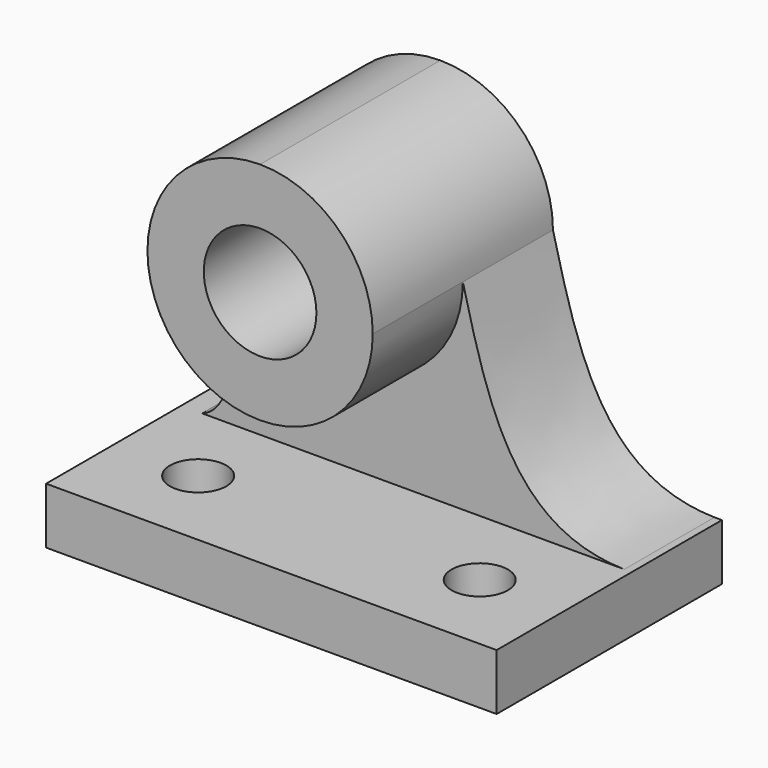
from build123d import *

# Parameters (mm, degrees)
F1_DEPTH = 25.4
F3_DEPTH = 6.35
F5_DEPTH = 19.05
F6_R     = 6.35
F7_DEPTH = 25.4010001
F8_R     = 3.175
F9_DEPTH = 6.3510001


with BuildPart() as f1:
    # F0 (on Front) → F1 (new body)
    with BuildSketch(Plane.XZ):
        with BuildLine():
            add(Edge.make_bspline(
                [(-43.2595827852, 47.5290406017), (-40.4437585235, 36.3493184584), (-37.6279342618, 25.1695963151), (-25.0532810608, 24.9273501791)],
                knots=[0, 0, 0, 0, 0.3387649469, 0.3387649469, 0.3387649469, 0.3387649469], degree=3))
            Line((-43.2595827852, 47.5290406017), (-43.2595827852, 24.9273501791))
            Line((-43.2595827852, 24.9273501791), (-25.0532810608, 24.9273501791))
        make_face()
        with BuildLine():
            Line((-24.2095827852, 24.9273501791), (-25.0532810608, 24.9273501791))
            add(Edge.make_bspline(
                [(-25.0532810608, 24.9273501791), (-24.776800624, 24.9220238837), (-24.495602442, 24.9219851311), (-24.2095827852, 24.9273501791)],
                knots=[0.3387649469, 0.3387649469, 0.3387649469, 0.3387649469, 0.3462134132, 0.3462134132, 0.3462134132, 0.3462134132], degree=3))
        make_face()
        with BuildLine():
            add(Edge.make_bspline(
                [(-72.6796290961, 24.9273501791), (-73.3463645358, 24.7120564737), (-74.1177900306, 24.7018207484), (-75.0095827852, 24.9273501791)],
                knots=[0.2357769442, 0.2357769442, 0.2357769442, 0.2357769442, 0.2710842466, 0.2710842466, 0.2710842466, 0.2710842466], degree=3))
            Line((-72.6796290961, 24.9273501791), (-75.0095827852, 24.9273501791))
        make_face()
        with BuildLine():
            Line((-68.6595827852, 24.9273501791), (-68.6595827852, 36.1707942024))
            add(Edge.make_bspline(
                [(-68.6595827852, 36.1707942024), (-68.9307748645, 30.329459196), (-69.8866500944, 25.8292233399), (-72.6796290961, 24.9273501791)],
                knots=[0.0878733709, 0.0878733709, 0.0878733709, 0.0878733709, 0.2357769442, 0.2357769442, 0.2357769442, 0.2357769442], degree=3))
            Line((-72.6796290961, 24.9273501791), (-68.6595827852, 24.9273501791))
        make_face()
        with BuildLine():
            ThreePointArc((-68.6490277589, 47.0113667108), (-68.6569437544, 47.2701498593), (-68.6595827852, 47.5290406017))
            Line((-68.6595827852, 47.5290406017), (-68.6595827852, 36.1707942024))
            add(Edge.make_bspline(
                [(-68.6490277589, 47.0113667108), (-68.5724341976, 43.2409261553), (-68.5055106798, 39.4894264591), (-68.6595827852, 36.1707942024)],
                knots=[0.0038450504, 0.0038450504, 0.0038450504, 0.0038450504, 0.0878733709, 0.0878733709, 0.0878733709, 0.0878733709], degree=3))
        make_face()
        with BuildLine():
            add(Edge.make_bspline(
                [(-68.6595827852, 47.5290406017), (-68.6560576938, 47.356469418), (-68.6525326024, 47.1838982344), (-68.6490277589, 47.0113667108)],
                knots=[0, 0, 0, 0, 0.0038450504, 0.0038450504, 0.0038450504, 0.0038450504], degree=3))
            ThreePointArc((-68.6595827852, 47.5290406017), (-68.6569437544, 47.2701498593), (-68.6490277589, 47.0113667108))
        make_face()
        with BuildLine():
            Line((-43.2595827852, 24.9273501791), (-43.2595827852, 47.5290406017))
            ThreePointArc((-43.2595827852, 47.5290406017), (-55.7006920428, 34.8316796324), (-68.6490277589, 47.0113667108))
            add(Edge.make_bspline(
                [(-68.6490277589, 47.0113667108), (-68.5724341976, 43.2409261553), (-68.5055106798, 39.4894264591), (-68.6595827852, 36.1707942024)],
                knots=[0.0038450504, 0.0038450504, 0.0038450504, 0.0038450504, 0.0878733709, 0.0878733709, 0.0878733709, 0.0878733709], degree=3))
            Line((-68.6595827852, 36.1707942024), (-68.6595827852, 24.9273501791))
            Line((-68.6595827852, 24.9273501791), (-72.6796290961, 24.9273501791))
            add(Edge.make_bspline(
                [(-72.6796290961, 24.9273501791), (-73.3463645358, 24.7120564737), (-74.1177900306, 24.7018207484), (-75.0095827852, 24.9273501791)],
                knots=[0.2357769442, 0.2357769442, 0.2357769442, 0.2357769442, 0.2710842466, 0.2710842466, 0.2710842466, 0.2710842466], degree=3))
            Line((-75.0095827852, 24.9273501791), (-75.0095827852, 18.5773501791))
            Line((-75.0095827852, 18.5773501791), (-24.2095827852, 18.5773501791))
            Line((-24.2095827852, 18.5773501791), (-24.2095827852, 24.9273501791))
            add(Edge.make_bspline(
                [(-25.0532810608, 24.9273501791), (-24.776800624, 24.9220238837), (-24.495602442, 24.9219851311), (-24.2095827852, 24.9273501791)],
                knots=[0.3387649469, 0.3387649469, 0.3387649469, 0.3387649469, 0.3462134132, 0.3462134132, 0.3462134132, 0.3462134132], degree=3))
            Line((-25.0532810608, 24.9273501791), (-43.2595827852, 24.9273501791))
        make_face()
        with BuildLine():
            ThreePointArc((-43.2595827852, 47.5290406017), (-46.9793266641, 56.5092967228), (-55.9595827852, 60.2290406017))
            ThreePointArc((-55.9595827852, 60.2290406017), (-64.9398389062, 56.5092967228), (-68.6595827852, 47.5290406017))
            add(Edge.make_bspline(
                [(-68.6595827852, 47.5290406017), (-68.6560576938, 47.356469418), (-68.6525326024, 47.1838982344), (-68.6490277589, 47.0113667108)],
                knots=[0, 0, 0, 0, 0.0038450504, 0.0038450504, 0.0038450504, 0.0038450504], degree=3))
            ThreePointArc((-68.6490277589, 47.0113667108), (-55.7006920428, 34.8316796324), (-43.2595827852, 47.5290406017))
        make_face()
    extrude(amount=F1_DEPTH)

    # F2 (on face) → F3 (join)
    with BuildSketch(Plane.XZ.offset(25.4)):
        with BuildLine():
            add(Edge.make_bspline(
                [(-43.2595827852, 47.5290406017), (-40.4437585235, 36.3493184584), (-37.6279342618, 25.1695963151), (-25.0532810608, 24.9273501791)],
                knots=[0, 0, 0, 0, 0.3387649469, 0.3387649469, 0.3387649469, 0.3387649469], degree=3))
            ThreePointArc((-43.2595827852, 47.5290406017), (-55.9595827852, 34.8290406017), (-68.6595827852, 47.5290406017))
            Line((-68.6595827852, 47.5290406017), (-68.6595827852, 36.1707942024))
            add(Edge.make_bspline(
                [(-68.6595827852, 36.1707942024), (-68.9307748645, 30.329459196), (-69.8866500944, 25.8292233399), (-72.6796290961, 24.9273501791)],
                knots=[0.0878733709, 0.0878733709, 0.0878733709, 0.0878733709, 0.2357769442, 0.2357769442, 0.2357769442, 0.2357769442], degree=3))
            Line((-72.6796290961, 24.9273501791), (-75.0095827852, 24.9273501791))
            Line((-75.0095827852, 24.9273501791), (-75.0095827852, 18.5773501791))
            Line((-75.0095827852, 18.5773501791), (-24.2095827852, 18.5773501791))
            Line((-24.2095827852, 18.5773501791), (-24.2095827852, 24.9273501791))
            Line((-24.2095827852, 24.9273501791), (-25.0532810608, 24.9273501791))
        make_face()
    extrude(amount=F3_DEPTH)

    # F4 (on face) → F5 (cut)
    with BuildSketch(Plane.XZ.offset(31.75)):
        with BuildLine():
            add(Edge.make_bspline(
                [(-68.6595827852, 36.1707942024), (-68.9307748645, 30.329459196), (-69.8866500944, 25.8292233399), (-72.6796290961, 24.9273501791)],
                knots=[0.0878733709, 0.0878733709, 0.0878733709, 0.0878733709, 0.2357769442, 0.2357769442, 0.2357769442, 0.2357769442], degree=3))
            Line((-72.6796290961, 24.9273501791), (-25.0532810608, 24.9273501791))
            add(Edge.make_bspline(
                [(-43.2595827852, 47.5290406017), (-40.4437585235, 36.3493184584), (-37.6279342618, 25.1695963151), (-25.0532810608, 24.9273501791)],
                knots=[0, 0, 0, 0, 0.3387649469, 0.3387649469, 0.3387649469, 0.3387649469], degree=3))
            ThreePointArc((-43.2595827852, 47.5290406017), (-55.9595827852, 34.8290406017), (-68.6595827852, 47.5290406017))
            Line((-68.6595827852, 47.5290406017), (-68.6595827852, 36.1707942024))
        make_face()
    extrude(amount=-F5_DEPTH, mode=Mode.SUBTRACT)

    # F6 (on face) → F7 (cut, through all)
    with BuildSketch(Plane.XZ.offset(25.4)):
        with Locations((-55.9595827852, 47.5290406017)):
            Circle(F6_R)
    extrude(amount=-F7_DEPTH, mode=Mode.SUBTRACT)

    # F8 (on face) → F9 (cut, through all)
    with BuildSketch(Plane.XY.offset(24.9273501791)):
        with Locations((-65.4845827852, -22.225)):
            Circle(F8_R)
        with Locations((-33.7345827852, -22.225)):
            Circle(F8_R)
    extrude(amount=-F9_DEPTH, mode=Mode.SUBTRACT)


solid = f1.part
